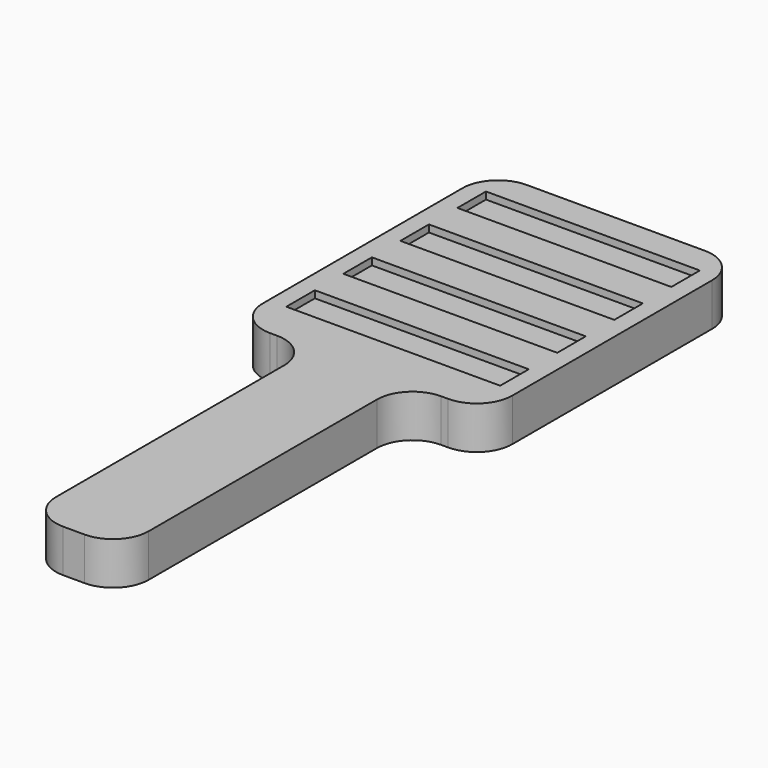
from build123d import *

# Parameters (mm, degrees)
F0_W     = 76.2
F0_H     = 12.7
F2_DEPTH = 15.24
F3_DEPTH = 12.7


with BuildPart() as f2:
    # F0 (on Top) → F2 (new body)
    with BuildSketch(Plane.XY):
        with BuildLine():
            ThreePointArc((44.45, 44.45), (40.730256, 53.430256), (31.75, 57.15))
            Line((31.75, 57.15), (-31.75, 57.15))
            ThreePointArc((-31.75, 57.15), (-40.730256, 53.430256), (-44.45, 44.45))
            Line((-44.45, 44.45), (-44.45, -44.45))
            ThreePointArc((-44.45, -44.45), (-40.730256, -53.430256), (-31.75, -57.15))
            Line((-31.75, -57.15), (-29.21, -57.15))
            ThreePointArc((-29.21, -57.15), (-20.229744, -60.869744), (-16.51, -69.85))
            Line((-16.51, -69.85), (-16.51, -171.45))
            ThreePointArc((-16.51, -171.45), (-12.790256, -180.430256), (-3.81, -184.15))
            Line((-3.81, -184.15), (3.81, -184.15))
            ThreePointArc((3.81, -184.15), (12.790256, -180.430256), (16.51, -171.45))
            Line((16.51, -171.45), (16.51, -85.09))
            Line((16.51, -85.09), (16.51, -72.39))
            Line((16.51, -72.39), (16.51, -69.85))
            ThreePointArc((16.51, -69.85), (20.229744, -60.869744), (29.21, -57.15))
            Line((29.21, -57.15), (31.75, -57.15))
            ThreePointArc((31.75, -57.15), (40.730256, -53.430256), (44.45, -44.45))
            Line((44.45, -44.45), (44.45, 44.45))
        make_face()
        with Locations((0, -35.56)):
            Rectangle(F0_W, F0_H, mode=Mode.SUBTRACT)
        with Locations((0, -10.16)):
            Rectangle(F0_W, F0_H, mode=Mode.SUBTRACT)
        with Locations((0, 15.24)):
            Rectangle(F0_W, F0_H, mode=Mode.SUBTRACT)
        with Locations((0, 40.64)):
            Rectangle(F0_W, F0_H, mode=Mode.SUBTRACT)
    extrude(amount=F2_DEPTH)

    # F0 (on Top) → F3 (join)
    with BuildSketch(Plane.XY):
        with Locations((0, 40.64)):
            Rectangle(F0_W, F0_H)
        with Locations((0, 15.24)):
            Rectangle(F0_W, F0_H)
        with Locations((0, -10.16)):
            Rectangle(F0_W, F0_H)
        with Locations((0, -35.56)):
            Rectangle(F0_W, F0_H)
    extrude(amount=F3_DEPTH)


solid = f2.part
